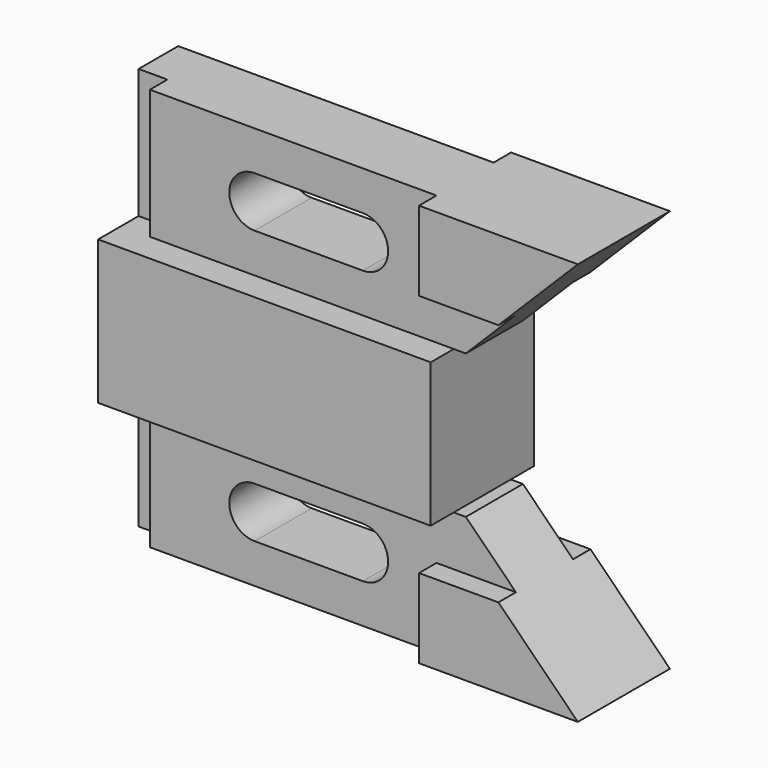
from build123d import *

# Parameters (mm, degrees)
F0_W          = 73.406
F0_H          = 31.75
F6_DEPTH      = 14.224
F6_DEPTH_BACK = 14.224
F7_DEPTH      = 7.874
F7_DEPTH_BACK = 7.874
F8_DEPTH      = 12.7
F8_DEPTH_BACK = 12.7
F9_DEPTH      = 12.7
F9_DEPTH_BACK = 12.7
F5_W          = 6.35
F5_H          = 28.575
F10_DEPTH     = 9.652


with BuildPart() as f6:
    # F0 (on Front) → F6 (new body, two sides)
    with BuildSketch(Plane.XZ) as f6_sk:
        Rectangle(F0_W, F0_H)
    extrude(amount=F6_DEPTH)
    extrude(f6_sk.sketch, amount=-F6_DEPTH_BACK)

    # F0 (on Front) → F7 (join, two sides)
    with BuildSketch(Plane.XZ) as f7_sk:
        Polygon((-36.703, 44.45), (-36.703, 15.875), (36.703, 15.875), (39.37, 15.875), (67.945, 44.45), align=None)
        Polygon((36.703, -15.875), (-36.703, -15.875), (-36.703, -44.45), (67.945, -44.45), (39.37, -15.875), align=None)
    extrude(amount=F7_DEPTH)
    extrude(f7_sk.sketch, amount=-F7_DEPTH_BACK)

    # F1 (on Front) → F8 (cut, two sides)
    with BuildSketch(Plane.XZ) as f8_sk:
        with BuildLine():
            ThreePointArc((16.637, 24.5745), (22.225, 30.1625), (16.637, 35.7505))
            Line((16.637, 35.7505), (-7.239, 35.7505))
            ThreePointArc((-7.239, 35.7505), (-12.827, 30.1625), (-7.239, 24.5745))
            Line((-7.239, 24.5745), (16.637, 24.5745))
        make_face()
        with BuildLine():
            Line((-7.239, -35.7505), (16.637, -35.7505))
            ThreePointArc((16.637, -35.7505), (22.225, -30.1625), (16.637, -24.5745))
            Line((16.637, -24.5745), (-7.239, -24.5745))
            ThreePointArc((-7.239, -24.5745), (-12.827, -30.1625), (-7.239, -35.7505))
        make_face()
    extrude(amount=-F8_DEPTH, mode=Mode.SUBTRACT)
    extrude(f8_sk.sketch, amount=F8_DEPTH_BACK, mode=Mode.SUBTRACT)

    # F2 (on Front) → F9 (join, two sides)
    with BuildSketch(Plane.XZ) as f9_sk:
        Polygon((67.945, 44.45), (32.893, 44.45), (32.893, 26.924), (50.419, 26.924), align=None)
        Polygon((32.893, -44.45), (67.945, -44.45), (50.419, -26.924), (32.893, -26.924), align=None)
    extrude(amount=F9_DEPTH)
    extrude(f9_sk.sketch, amount=-F9_DEPTH_BACK)

    # F5 (on line) → F10 (cut, through all)
    with BuildSketch(Plane.XZ.offset(3.048)):
        with Locations((-33.528, 30.1625)):
            Rectangle(F5_W, F5_H)
        with Locations((-33.528, -30.1625)):
            Rectangle(F5_W, F5_H)
    extrude(amount=F10_DEPTH, mode=Mode.SUBTRACT)


solid = f6.part
